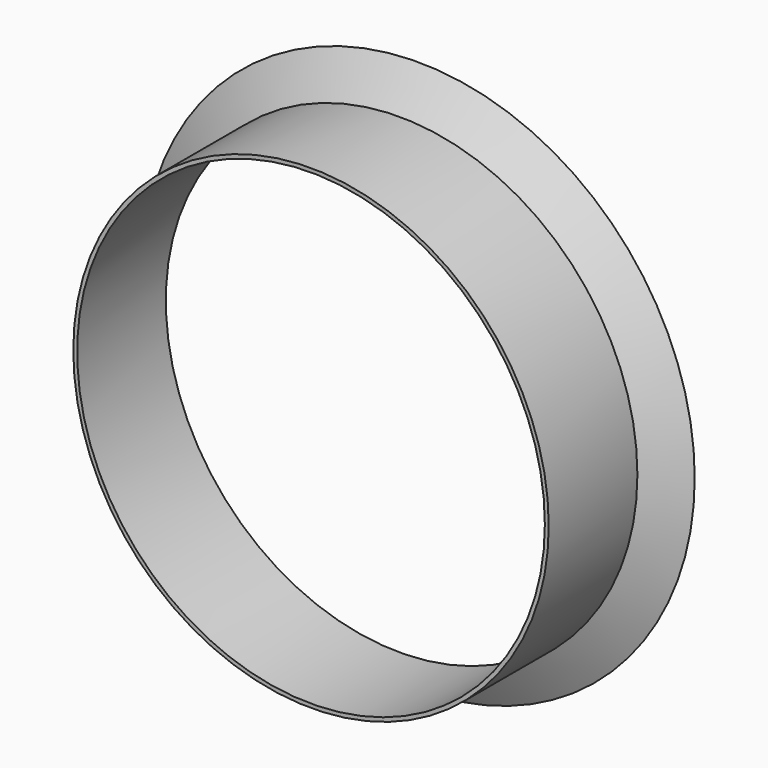
from build123d import *

# Parameters (mm, degrees)
FILLET_R = 1


with BuildPart() as part:
    # Sketch → Revolution (revolve)
    with BuildSketch(Plane.XY):
        Polygon((21.1, 0), (21.1, 10), (24.57967, 12.115673), (24.92967, 12.115673), (21.45, 10), (21.45, 0), align=None)
    revolve(axis=Axis((0, 0, 0), (0, 1, 0)))

    # Fillet
    fillet_edges = [part.edges().sort_by_distance(p)[0] for p in [
        (-24.57967, 12.115673, 0),
    ]]
    fillet(fillet_edges, radius=FILLET_R)


solid = part.part
